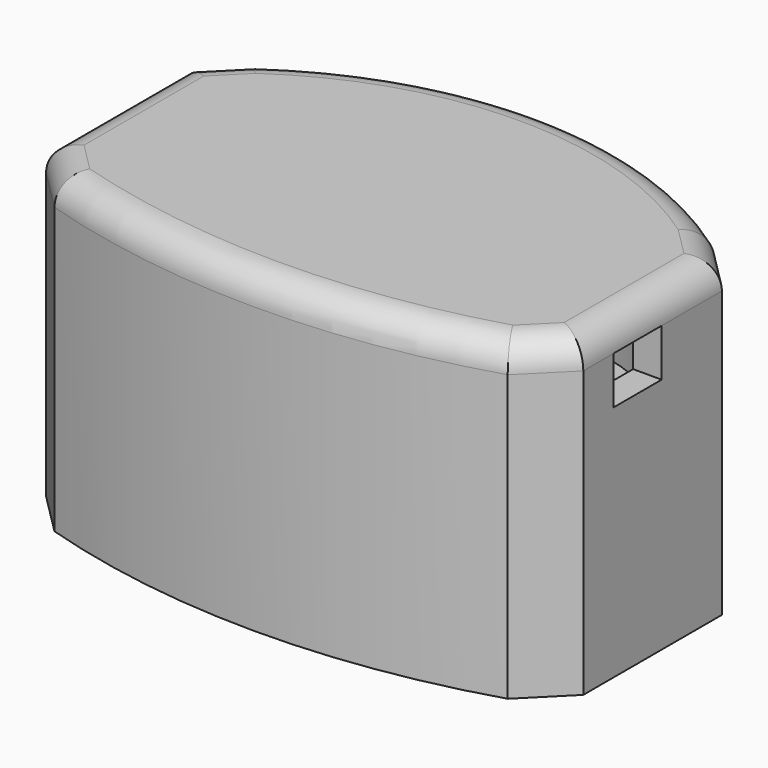
from build123d import *

# Parameters (mm, degrees)
F0_R      = 4.5
F0_R_2    = 2.15
F1_DEPTH  = 33
F2_DEPTH  = 31
F3_DEPTH  = 15
F4_DEPTH  = 13
F5_DEPTH  = 31
F6_R      = 3
F7_DEPTH  = 24
F8_W      = 6.3
F8_H      = 5
F9_DEPTH  = 4
F10_W     = 12.3
F10_H     = 5
F11_DEPTH = 4


with BuildPart() as f1:
    # F0 (on Top) → F1 (new body)
    with BuildSketch(Plane.XY):
        with BuildLine():
            Line((28.25, -3.038874), (28.25, 15.186))
            Line((28.25, 15.186), (24.182373, 19.253627))
            ThreePointArc((24.182373, 19.253627), (0, 26.943359), (-24.182373, 19.253627))
            Line((-24.182373, 19.253627), (-28.25, 15.186))
            Line((-28.25, 15.186), (-28.25, -3.038874))
            Line((-28.25, -3.038874), (-23.834695, -7.454179))
            ThreePointArc((-23.834695, -7.454179), (0, -11.046233), (23.834695, -7.454179))
            Line((23.834695, -7.454179), (28.25, -3.038874))
        make_face()
        with BuildLine():
            Line((-22.244796, -4.801437), (-25.25, -1.796233))
            Line((-25.25, -1.796233), (-25.25, 13.943359))
            Line((-25.25, 13.943359), (-22.244796, 16.948563))
            ThreePointArc((-22.244796, 16.948563), (0, 23.943359), (22.244796, 16.948563))
            Line((22.244796, 16.948563), (25.25, 13.943359))
            Line((25.25, 13.943359), (25.25, -1.796233))
            Line((25.25, -1.796233), (22.244796, -4.801437))
            ThreePointArc((22.244796, -4.801437), (0, -8.046233), (-22.244796, -4.801437))
        make_face(mode=Mode.SUBTRACT)
        with BuildLine():
            Line((-25.25, 13.943359), (-25.25, -1.796233))
            Line((-25.25, -1.796233), (-22.244796, -4.801437))
            ThreePointArc((-22.244796, -4.801437), (0, -8.046233), (22.244796, -4.801437))
            Line((22.244796, -4.801437), (25.25, -1.796233))
            Line((25.25, -1.796233), (25.25, 13.943359))
            Line((25.25, 13.943359), (22.244796, 16.948563))
            ThreePointArc((22.244796, 16.948563), (0, 23.943359), (-22.244796, 16.948563))
            Line((-22.244796, 16.948563), (-25.25, 13.943359))
        make_face()
        with BuildLine():
            Line((20.314515, 14.636203), (22.25, 12.700719))
            Line((22.25, 12.700719), (22.25, -1.663785))
            ThreePointArc((22.25, -1.663785), (0, -5.046233), (-22.25, -1.663785))
            Line((-22.25, -1.663785), (-22.25, 12.700719))
            Line((-22.25, 12.700719), (-20.314515, 14.636203))
            ThreePointArc((-20.314515, 14.636203), (0, 20.943359), (20.314515, 14.636203))
        make_face(mode=Mode.SUBTRACT)
        with BuildLine():
            Line((22.25, -1.663785), (22.25, 12.700719))
            Line((22.25, 12.700719), (20.314515, 14.636203))
            ThreePointArc((20.314515, 14.636203), (0, 20.943359), (-20.314515, 14.636203))
            Line((-20.314515, 14.636203), (-22.25, 12.700719))
            Line((-22.25, 12.700719), (-22.25, -1.663785))
            ThreePointArc((-22.25, -1.663785), (0, -5.046233), (22.25, -1.663785))
        make_face()
        with Locations((6.75, 6.073359)):
            Circle(F0_R, mode=Mode.SUBTRACT)
        with Locations((6.75, 6.073359)):
            Circle(F0_R)
        with Locations((6.75, 6.073359)):
            Circle(F0_R_2, mode=Mode.SUBTRACT)
        with Locations((6.75, 6.073359)):
            Circle(F0_R_2)
    extrude(amount=F1_DEPTH)

    # F0 (on Top) → F2 (cut)
    with BuildSketch(Plane.XY):
        with BuildLine():
            Line((-25.25, 13.943359), (-25.25, -1.796233))
            Line((-25.25, -1.796233), (-22.244796, -4.801437))
            ThreePointArc((-22.244796, -4.801437), (0, -8.046233), (22.244796, -4.801437))
            Line((22.244796, -4.801437), (25.25, -1.796233))
            Line((25.25, -1.796233), (25.25, 13.943359))
            Line((25.25, 13.943359), (22.244796, 16.948563))
            ThreePointArc((22.244796, 16.948563), (0, 23.943359), (-22.244796, 16.948563))
            Line((-22.244796, 16.948563), (-25.25, 13.943359))
        make_face()
        with BuildLine():
            Line((20.314515, 14.636203), (22.25, 12.700719))
            Line((22.25, 12.700719), (22.25, -1.663785))
            ThreePointArc((22.25, -1.663785), (0, -5.046233), (-22.25, -1.663785))
            Line((-22.25, -1.663785), (-22.25, 12.700719))
            Line((-22.25, 12.700719), (-20.314515, 14.636203))
            ThreePointArc((-20.314515, 14.636203), (0, 20.943359), (20.314515, 14.636203))
        make_face(mode=Mode.SUBTRACT)
        with BuildLine():
            Line((22.25, -1.663785), (22.25, 12.700719))
            Line((22.25, 12.700719), (20.314515, 14.636203))
            ThreePointArc((20.314515, 14.636203), (0, 20.943359), (-20.314515, 14.636203))
            Line((-20.314515, 14.636203), (-22.25, 12.700719))
            Line((-22.25, 12.700719), (-22.25, -1.663785))
            ThreePointArc((-22.25, -1.663785), (0, -5.046233), (22.25, -1.663785))
        make_face()
        with Locations((6.75, 6.073359)):
            Circle(F0_R, mode=Mode.SUBTRACT)
    extrude(amount=F2_DEPTH, mode=Mode.SUBTRACT)

    # F0 (on Top) → F3 (join)
    with BuildSketch(Plane.XY):
        with BuildLine():
            Line((-25.25, 13.943359), (-25.25, -1.796233))
            Line((-25.25, -1.796233), (-22.244796, -4.801437))
            ThreePointArc((-22.244796, -4.801437), (0, -8.046233), (22.244796, -4.801437))
            Line((22.244796, -4.801437), (25.25, -1.796233))
            Line((25.25, -1.796233), (25.25, 13.943359))
            Line((25.25, 13.943359), (22.244796, 16.948563))
            ThreePointArc((22.244796, 16.948563), (0, 23.943359), (-22.244796, 16.948563))
            Line((-22.244796, 16.948563), (-25.25, 13.943359))
        make_face()
        with BuildLine():
            Line((20.314515, 14.636203), (22.25, 12.700719))
            Line((22.25, 12.700719), (22.25, -1.663785))
            ThreePointArc((22.25, -1.663785), (0, -5.046233), (-22.25, -1.663785))
            Line((-22.25, -1.663785), (-22.25, 12.700719))
            Line((-22.25, 12.700719), (-20.314515, 14.636203))
            ThreePointArc((-20.314515, 14.636203), (0, 20.943359), (20.314515, 14.636203))
        make_face(mode=Mode.SUBTRACT)
    extrude(amount=F3_DEPTH)

    # F0 (on Top) → F4 (cut)
    with BuildSketch(Plane.XY):
        with BuildLine():
            Line((-25.25, 13.943359), (-25.25, -1.796233))
            Line((-25.25, -1.796233), (-22.244796, -4.801437))
            ThreePointArc((-22.244796, -4.801437), (0, -8.046233), (22.244796, -4.801437))
            Line((22.244796, -4.801437), (25.25, -1.796233))
            Line((25.25, -1.796233), (25.25, 13.943359))
            Line((25.25, 13.943359), (22.244796, 16.948563))
            ThreePointArc((22.244796, 16.948563), (0, 23.943359), (-22.244796, 16.948563))
            Line((-22.244796, 16.948563), (-25.25, 13.943359))
        make_face()
        with BuildLine():
            Line((20.314515, 14.636203), (22.25, 12.700719))
            Line((22.25, 12.700719), (22.25, -1.663785))
            ThreePointArc((22.25, -1.663785), (0, -5.046233), (-22.25, -1.663785))
            Line((-22.25, -1.663785), (-22.25, 12.700719))
            Line((-22.25, 12.700719), (-20.314515, 14.636203))
            ThreePointArc((-20.314515, 14.636203), (0, 20.943359), (20.314515, 14.636203))
        make_face(mode=Mode.SUBTRACT)
    extrude(amount=F4_DEPTH, mode=Mode.SUBTRACT)

    # F0 (on Top) → F5 (cut)
    with BuildSketch(Plane.XY):
        with Locations((6.75, 6.073359)):
            Circle(F0_R_2)
    extrude(amount=F5_DEPTH, mode=Mode.SUBTRACT)

    # F6
    f6_edges = [f1.edges().sort_by_distance(p)[0] for p in [
        (0, -11.046233, 33),
        (-28.25, 6.073563, 33),
        (0, 26.943359, 33),
        (28.25, 6.073563, 33),
        (-26.042347, -5.246526, 33),
        (26.042347, -5.246526, 33),
        (26.216187, 17.219813, 33),
        (-26.216187, 17.219813, 33),
    ]]
    fillet(f6_edges, radius=F6_R)

    # F0 (on Top) → F7 (cut)
    with BuildSketch(Plane.XY):
        with Locations((6.75, 6.073359)):
            Circle(F0_R)
        with Locations((6.75, 6.073359)):
            Circle(F0_R_2, mode=Mode.SUBTRACT)
        with Locations((6.75, 6.073359)):
            Circle(F0_R_2)
    extrude(amount=F7_DEPTH, mode=Mode.SUBTRACT)

    # F8 (on face) → F9 (cut)
    with BuildSketch(Plane.YZ.offset(28.25)):
        with Locations((4.111126, 27.5)):
            Rectangle(F8_W, F8_H)
    extrude(amount=-F9_DEPTH, mode=Mode.SUBTRACT)

    # F10 (on face) → F11 (cut)
    with BuildSketch(Plane(origin=(-28.25, 0, 0), x_dir=(0, -1, 0), z_dir=(-1, 0, 0))):
        with Locations((-6.0735, 20.5)):
            Rectangle(F10_W, F10_H)
    extrude(amount=-F11_DEPTH, mode=Mode.SUBTRACT)


solid = f1.part
